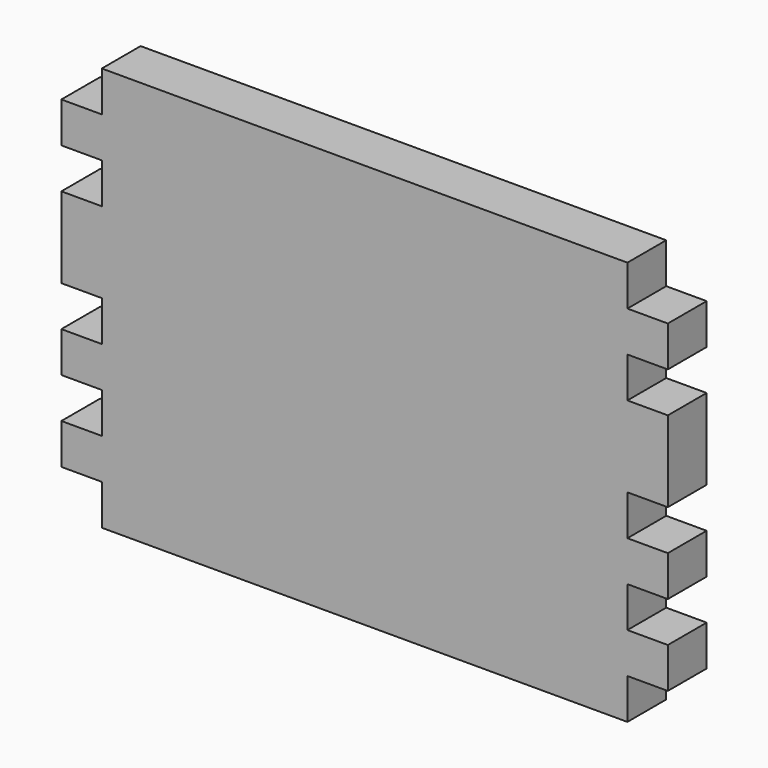
from build123d import *

# Parameters (mm, degrees)
F1_DEPTH = 12


with BuildPart() as f1:
    # F0 (on Front) → F1 (new body)
    with BuildSketch(Plane.XZ):
        Polygon((0, -50), (0, 50), (-65, 50), (-65, 40), (-75, 40), (-75, 30), (-65, 30), (-65, 20), (-75, 20), (-75, 10), (-75, 0), (-65, 0), (-65, -10), (-75, -10), (-75, -20), (-65, -20), (-65, -30), (-75, -30), (-75, -40), (-65, -40), (-65, -50), align=None)
        Polygon((65, 40), (65, 50), (0, 50), (0, -50), (65, -50), (65, -40), (75, -40), (75, -30), (65, -30), (65, -20), (75, -20), (75, -10), (65, -10), (65, 0), (75, 0), (75, 10), (75, 20), (65, 20), (65, 30), (75, 30), (75, 40), align=None)
    extrude(amount=F1_DEPTH)


solid = f1.part
